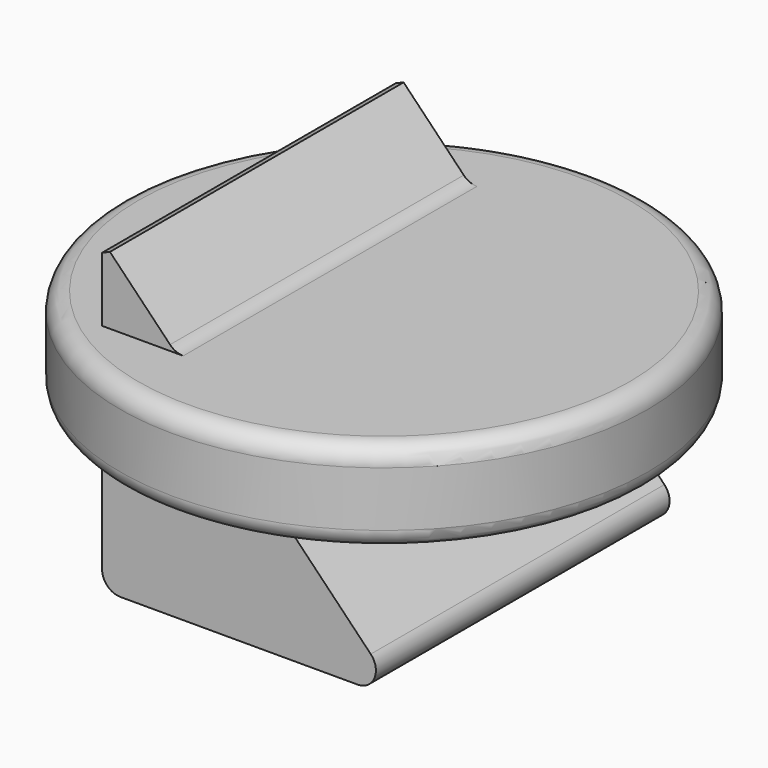
from build123d import *

# Parameters (mm, degrees)
F0_R     = 71.9118919296
F1_DEPTH = 25
F3_DEPTH = 50
F4_R     = 5
F5_R     = 5
F6_R     = 5
F7_R     = 5
F8_R     = 5


with BuildPart() as f1:
    # F0 (on Top) → F1 (new body)
    with BuildSketch(Plane.XY):
        Circle(F0_R)
    extrude(amount=F1_DEPTH)

    # F2 (on Front) → F3 (join, symmetric)
    with BuildSketch(Plane.XZ):
        Polygon((-34.6600189805, 43.438449502), (-36.7943756282, 42.5470620394), (-36.7943756282, -38.3929647505), (44.6020886302, -38.3929647505), align=None)
    extrude(amount=F3_DEPTH, both=True)

    # F4
    f4_edges = [f1.edges().sort_by_distance(p)[0] for p in [
        (44.602089, 0, -38.392965),
    ]]
    fillet(f4_edges, radius=F4_R)

    # F5
    f5_edges = [f1.edges().sort_by_distance(p)[0] for p in [
        (-36.794376, 0, -38.392965),
    ]]
    fillet(f5_edges, radius=F5_R)

    # F6
    f6_edges = [f1.edges().sort_by_distance(p)[0] for p in [
        (-71.911892, 0, 25),
    ]]
    fillet(f6_edges, radius=F6_R)

    # F7
    f7_edges = [f1.edges().sort_by_distance(p)[0] for p in [
        (-71.911892, 0, 0),
    ]]
    fillet(f7_edges, radius=F7_R)

    # F8
    f8_edges = [f1.edges().sort_by_distance(p)[0] for p in [
        (-16.800492, 0, 25),
    ]]
    fillet(f8_edges, radius=F8_R)


solid = f1.part
